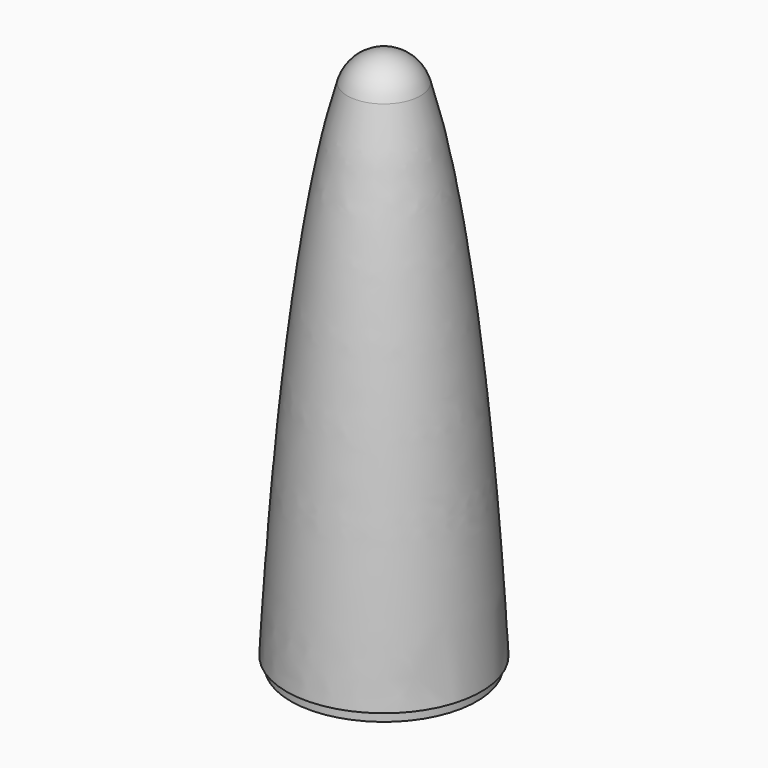
from build123d import *


with BuildPart() as f1:
    # F0 (on Front) → F1 (revolve)
    with BuildSketch(Plane.XZ):
        with BuildLine():
            Line((-29.6536915112, 123.056168069), (-28.35564, 123.056168069))
            Line((-28.35564, 123.056168069), (-28.35564, 120.056168069))
            Line((-28.35564, 120.056168069), (0, 120.056168069))
            Line((0, 120.056168069), (0, 123.056168069))
            Line((0, 123.056168069), (0, 285.056168069))
            ThreePointArc((0, 285.056168069), (-6.9273565207, 282.7650102819), (-11.1224754025, 276.7951987322))
            add(Edge.make_bspline(
                [(-11.1224754025, 276.7951987322), (-23.9727259194, 234.2208098407), (-29.6536915112, 123.056168069)],
                knots=[0.3560329891, 0.3560329891, 0.3560329891, 1.1435512877, 1.1435512877, 1.1435512877], degree=2, weights=[1, 0.9234733432, 1]))
        make_face()
    revolve(axis=Axis((0, 0, 291.139662385), (0, 0, -1)))


with BuildPart() as f1_1:
    # F2: moved
    add(f1.part.moved(Location((0, 0, -220))))


solid = f1_1.part
